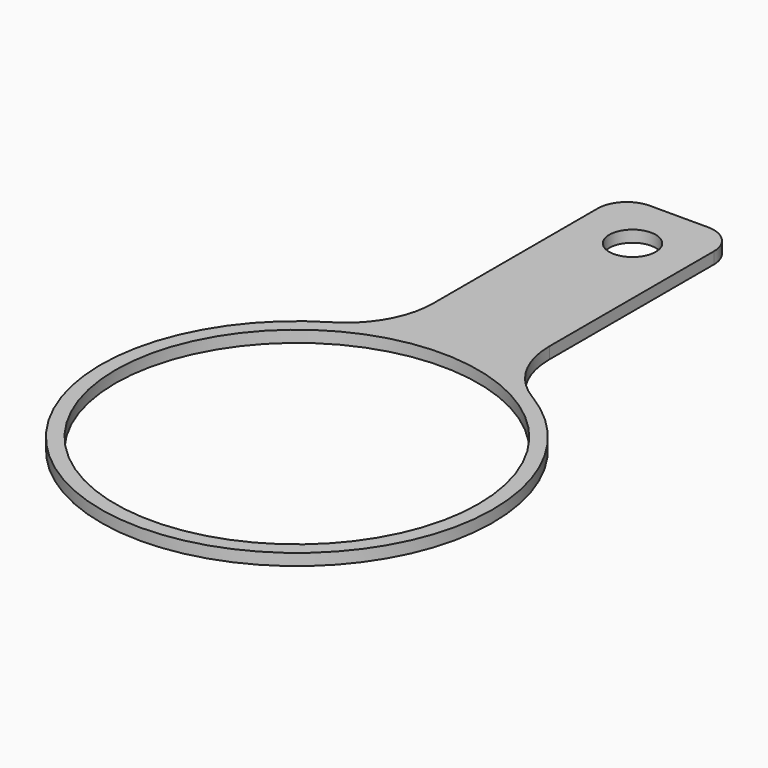
from build123d import *

# Parameters (mm, degrees)
F0_R     = 4
F0_R_2   = 31.25
F1_DEPTH = 2


with BuildPart() as f1:
    # F0 (on Top) → F1 (new body)
    with BuildSketch(Plane.XY):
        with BuildLine():
            Line((-11.071997, 17.906935), (-11.071997, 2.906935))
            Line((-11.071997, 2.906935), (8.928003, 2.906935))
            Line((8.928003, 2.906935), (8.928003, 17.906935))
            ThreePointArc((8.928003, 17.906935), (7.463537, 21.442469), (3.928003, 22.906935))
            Line((3.928003, 22.906935), (-6.071997, 22.906935))
            ThreePointArc((-6.071997, 22.906935), (-9.607531, 21.442469), (-11.071997, 17.906935))
        make_face()
        with Locations((-1.071997, 12.906935)):
            Circle(F0_R, mode=Mode.SUBTRACT)
        with BuildLine():
            ThreePointArc((-11.071997, -17.475885), (-13.02622, -24.879107), (-18.37969, -30.353323))
            ThreePointArc((-18.37969, -30.353323), (-1.071997, -93.077558), (16.235695, -30.353323))
            ThreePointArc((16.235695, -30.353323), (10.882225, -24.879107), (8.928003, -17.475885))
            Line((8.928003, -17.475885), (8.928003, 2.906935))
            Line((8.928003, 2.906935), (-11.071997, 2.906935))
            Line((-11.071997, 2.906935), (-11.071997, -17.475885))
        make_face()
        with Locations((-1.071997, -59.327558)):
            Circle(F0_R_2, mode=Mode.SUBTRACT)
    extrude(amount=F1_DEPTH)


solid = f1.part
